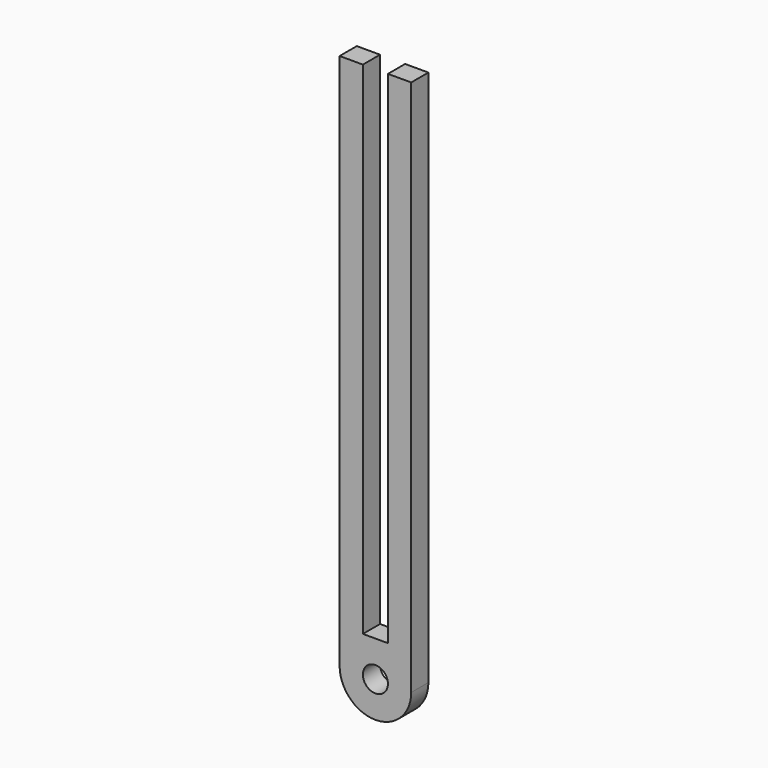
from build123d import *

# Parameters (mm, degrees)
F0_R     = 3.5
F1_DEPTH = 6
F2_W     = 7
F2_H     = 150
F3_DEPTH = 25


with BuildPart() as f1:
    # F0 (on Front) → F1 (new body)
    with BuildSketch(Plane.XZ):
        with BuildLine():
            Line((-10, 150), (-10, 0))
            ThreePointArc((-10, 0), (0, -10), (10, 0))
            Line((10, 0), (10, 150))
            Line((10, 150), (-10, 150))
        make_face()
        Circle(F0_R, mode=Mode.SUBTRACT)
    extrude(amount=-F1_DEPTH)

    # F2 (on face) → F3 (cut)
    with BuildSketch(Plane.XZ):
        with Locations((0, 85)):
            Rectangle(F2_W, F2_H)
    extrude(amount=-F3_DEPTH, mode=Mode.SUBTRACT)


solid = f1.part
